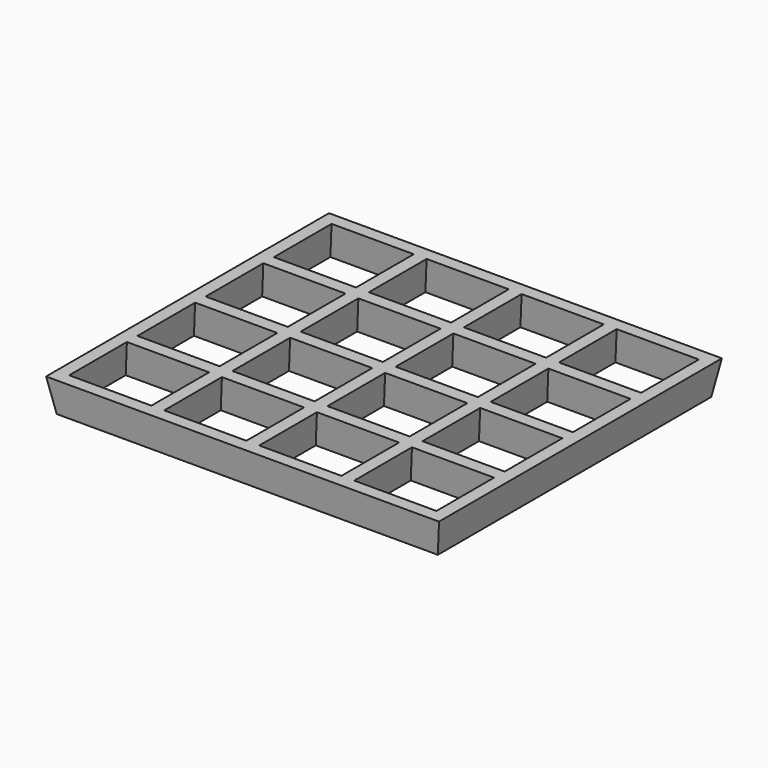
from build123d import *

# Parameters (mm, degrees)
F0_W     = 28
F0_H     = 0.3
F0_W_2   = 28.3
F0_H_2   = 0.2
F0_H_3   = 0.1
F0_W_3   = 0.3
F1_DEPTH = 10
F1_TAPER = -10


with BuildPart() as f1:
    # F0 (on Top) → F1 (new body)
    with BuildSketch(Plane.XY):
        Polygon((28, 0), (0, 0), (0, 25), (28, 25), (28, 25.1), (-0.3, 25.1), (-0.3, -0.3), (28, -0.3), align=None)
        with Locations((42.3, -0.15)):
            Rectangle(F0_W, F0_H)
        with Locations((13.85, 25.2)):
            Rectangle(F0_W_2, F0_H_2)
        with Locations((13.85, 50.6)):
            Rectangle(F0_W_2, F0_H_2)
        Polygon((-0.3, 101.5), (-0.3, 76.1), (28, 76.1), (28, 76.2), (0, 76.2), (0, 101.2), (28, 101.2), (28, 101.5), align=None)
        with Locations((13.85, 76)):
            Rectangle(F0_W_2, F0_H_2)
        with Locations((42.3, 101.35)):
            Rectangle(F0_W, F0_H)
        with Locations((70.6, -0.15)):
            Rectangle(F0_W, F0_H)
        with Locations((70.6, 101.35)):
            Rectangle(F0_W, F0_H)
        Polygon((84.9, 0), (84.9, -0.3), (113.2, -0.3), (113.2, 25.1), (84.9, 25.1), (84.9, 25), (112.9, 25), (112.9, 0), align=None)
        with Locations((99.05, 25.2)):
            Rectangle(F0_W_2, F0_H_2)
        with Locations((99.05, 50.6)):
            Rectangle(F0_W_2, F0_H_2)
        with Locations((99.05, 76)):
            Rectangle(F0_W_2, F0_H_2)
        Polygon((84.9, 76.1), (113.2, 76.1), (113.2, 101.5), (84.9, 101.5), (84.9, 101.2), (112.9, 101.2), (112.9, 76.2), (84.9, 76.2), align=None)
        Polygon((-0.3, 25.3), (28, 25.3), (28, 25.4), (0, 25.4), (0, 50.4), (28, 50.4), (28, 50.5), (-0.3, 50.5), align=None)
        Polygon((-0.3, 75.9), (-0.3, 50.7), (28, 50.7), (28, 50.8), (0, 50.8), (0, 75.8), (28, 75.8), (28, 75.9), align=None)
        Polygon((84.9, 25.4), (84.9, 25.3), (113.2, 25.3), (113.2, 50.5), (84.9, 50.5), (84.9, 50.4), (112.9, 50.4), (112.9, 25.4), align=None)
        Polygon((84.9, 50.7), (113.2, 50.7), (113.2, 75.9), (84.9, 75.9), (84.9, 75.8), (112.9, 75.8), (112.9, 50.8), (84.9, 50.8), align=None)
        Polygon((28, 25), (28, 0), (28, -0.3), (28.3, -0.3), (28.3, 0), (28.3, 25), (28.3, 25.1), (28, 25.1), align=None)
        Polygon((28, 76.2), (28, 76.1), (28.3, 76.1), (28.3, 76.2), (28.3, 101.2), (28.3, 101.5), (28, 101.5), (28, 101.2), align=None)
        Polygon((84.6, 0), (84.6, -0.3), (84.9, -0.3), (84.9, 0), (84.9, 25), (84.9, 25.1), (84.6, 25.1), (84.6, 25), align=None)
        Polygon((84.6, 76.2), (84.6, 76.1), (84.9, 76.1), (84.9, 76.2), (84.9, 101.2), (84.9, 101.5), (84.6, 101.5), (84.6, 101.2), align=None)
        Polygon((56.3, 0), (56.3, -0.3), (56.6, -0.3), (56.6, 0), (56.6, 25), (56.6, 25.1), (56.3, 25.1), (56.3, 25), align=None)
        Polygon((56.3, 76.2), (56.3, 76.1), (56.6, 76.1), (56.6, 76.2), (56.6, 101.2), (56.6, 101.5), (56.3, 101.5), (56.3, 101.2), align=None)
        with Locations((42.3, 25.35)):
            Rectangle(F0_W, F0_H_3)
        with Locations((70.6, 25.35)):
            Rectangle(F0_W, F0_H_3)
        Polygon((28, 25.4), (28, 25.3), (28.3, 25.3), (28.3, 25.4), (28.3, 50.4), (28.3, 50.5), (28, 50.5), (28, 50.4), align=None)
        Polygon((28, 50.8), (28, 50.7), (28.3, 50.7), (28.3, 50.8), (28.3, 75.8), (28.3, 75.9), (28, 75.9), (28, 75.8), align=None)
        with Locations((42.3, 25.2)):
            Rectangle(F0_W, F0_H_2)
        with Locations((70.6, 25.05)):
            Rectangle(F0_W, F0_H_3)
        with Locations((70.6, 50.75)):
            Rectangle(F0_W, F0_H_3)
        with Locations((70.6, 75.85)):
            Rectangle(F0_W, F0_H_3)
        with Locations((42.3, 50.6)):
            Rectangle(F0_W, F0_H_2)
        with Locations((42.3, 75.85)):
            Rectangle(F0_W, F0_H_3)
        Polygon((84.6, 25.4), (84.6, 25.3), (84.9, 25.3), (84.9, 25.4), (84.9, 50.4), (84.9, 50.5), (84.6, 50.5), (84.6, 50.4), align=None)
        Polygon((84.6, 50.8), (84.6, 50.7), (84.9, 50.7), (84.9, 50.8), (84.9, 75.8), (84.9, 75.9), (84.6, 75.9), (84.6, 75.8), align=None)
        with Locations((42.3, 25.05)):
            Rectangle(F0_W, F0_H_3)
        with Locations((70.6, 25.2)):
            Rectangle(F0_W, F0_H_2)
        Polygon((56.3, 25.4), (56.3, 25.3), (56.6, 25.3), (56.6, 25.4), (56.6, 50.4), (56.6, 50.5), (56.3, 50.5), (56.3, 50.4), align=None)
        Polygon((56.3, 50.8), (56.3, 50.7), (56.6, 50.7), (56.6, 50.8), (56.6, 75.8), (56.6, 75.9), (56.3, 75.9), (56.3, 75.8), align=None)
        with Locations((70.6, 50.6)):
            Rectangle(F0_W, F0_H_2)
        with Locations((42.3, 50.45)):
            Rectangle(F0_W, F0_H_3)
        with Locations((70.6, 76)):
            Rectangle(F0_W, F0_H_2)
        with Locations((42.3, 76)):
            Rectangle(F0_W, F0_H_2)
        with Locations((70.6, 76.15)):
            Rectangle(F0_W, F0_H_3)
        with Locations((42.3, 76.15)):
            Rectangle(F0_W, F0_H_3)
        with Locations((42.3, 50.75)):
            Rectangle(F0_W, F0_H_3)
        with Locations((70.6, 50.45)):
            Rectangle(F0_W, F0_H_3)
        with Locations((84.75, 76)):
            Rectangle(F0_W_3, F0_H_2)
        with Locations((56.45, 76)):
            Rectangle(F0_W_3, F0_H_2)
        with Locations((28.15, 76)):
            Rectangle(F0_W_3, F0_H_2)
        with Locations((84.75, 25.2)):
            Rectangle(F0_W_3, F0_H_2)
        with Locations((84.75, 50.6)):
            Rectangle(F0_W_3, F0_H_2)
        with Locations((28.15, 50.6)):
            Rectangle(F0_W_3, F0_H_2)
        with Locations((56.45, 50.6)):
            Rectangle(F0_W_3, F0_H_2)
        with Locations((56.45, 25.2)):
            Rectangle(F0_W_3, F0_H_2)
        with Locations((28.15, 25.2)):
            Rectangle(F0_W_3, F0_H_2)
    extrude(amount=F1_DEPTH, taper=F1_TAPER)


solid = f1.part
